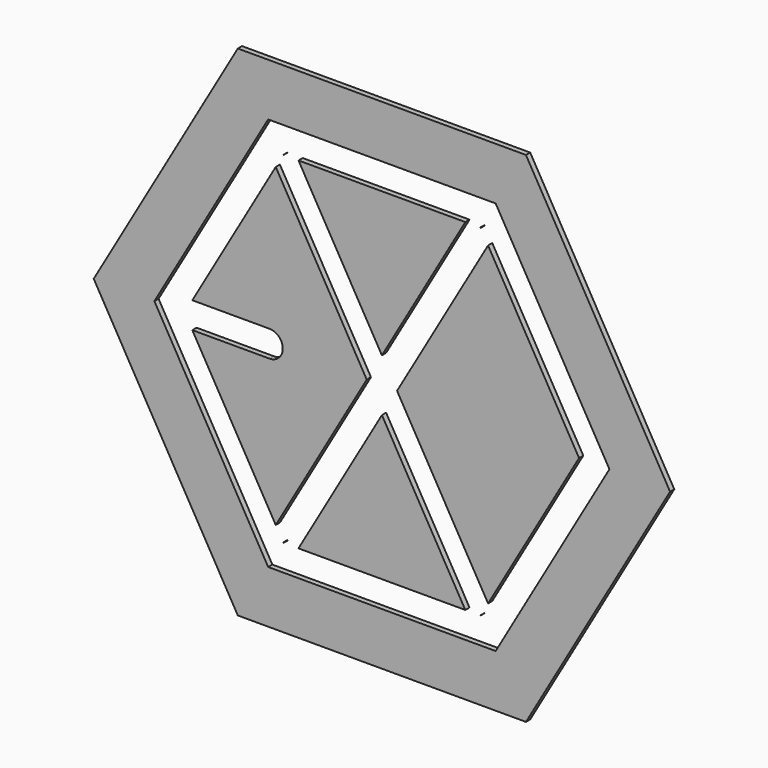
from build123d import *

# Parameters (mm, degrees)
F6_DEPTH = 1
F7_DEPTH = 1
F4_W     = 20
F4_H     = 5
F5_R     = 2.5
F8_DEPTH = 1


with BuildPart() as f6:
    # F0 (on Front) → F6 (new body)
    with BuildSketch(Plane.XZ):
        Polygon((-27.424138, -47.5), (27.424138, -47.5), (54.848276, 0), (27.424138, 47.5), (-27.424138, 47.5), (-54.848276, 0), align=None)
        Polygon((21.650635, 37.5), (43.30127, 0), (21.650635, -37.5), (-21.650635, -37.5), (-43.30127, 0), (-21.650635, 37.5), align=None, mode=Mode.SUBTRACT)
    extrude(amount=F6_DEPTH)


with BuildPart() as f7:
    # F3 (on Front) → F7 (new body)
    with BuildSketch(Plane.XZ):
        Polygon((-18.763884, -32.5), (18.763884, -32.5), (37.527767, 0), (18.763884, 32.5), (-18.763884, 32.5), (-37.527767, 0), align=None)
    extrude(amount=F7_DEPTH)

    # F1 (on Front) + F2 (on Front) + F4 (on Front) + F5 (on Front) → F8 (cut)
    with BuildSketch(Plane.XZ):
        Polygon((16.584936, 33.725953), (-20.915064, -31.225953), (-16.584936, -33.725953), (20.915064, 31.225953), align=None)
    with BuildSketch(Plane.XZ):
        Polygon((20.915064, -31.225953), (-16.584936, 33.725953), (-20.915064, 31.225953), (16.584936, -33.725953), align=None)
    with BuildSketch(Plane.XZ):
        with Locations((-31.379187, 0)):
            Rectangle(F4_W, F4_H)
    with BuildSketch(Plane.XZ):
        with Locations((-21.379187, 0)):
            Circle(F5_R)
    extrude(amount=F8_DEPTH, mode=Mode.SUBTRACT)


solid = Compound([f6.part, f7.part])
